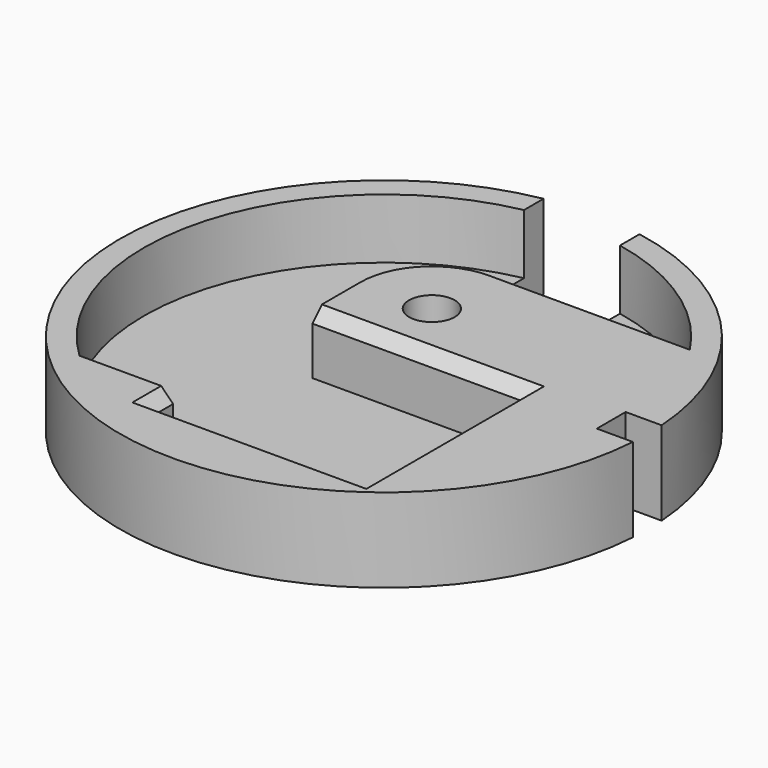
from build123d import *

# Parameters (mm, degrees)
SKETCH_R        = 22
PAD_DEPTH       = 7
SKETCH001_R     = 1.9
POCKET_DEPTH    = 7.001
POCKET001_DEPTH = 7.001
SKETCH003_W     = 18.5
SKETCH003_H     = 16.5
POCKET002_DEPTH = 5
POCKET003_DEPTH = 7.001
POCKET004_DEPTH = 5
CHAMFER_SIZE    = 1
CHAMFER001_SIZE = 1
CHAMFER002_SIZE = 1


with BuildPart() as part:
    # Sketch → Pad (new body)
    with BuildSketch(Plane.XY):
        Circle(SKETCH_R)
    extrude(amount=PAD_DEPTH)

    # Sketch001 → Pocket (cut, through all)
    with BuildSketch(Plane.XY.offset(7)):
        with Locations((0, 5)):
            Circle(SKETCH001_R)
    extrude(amount=-POCKET_DEPTH, mode=Mode.SUBTRACT)

    # Sketch002 → Pocket001 (cut, through all)
    with BuildSketch(Plane.XY.offset(7)):
        with BuildLine():
            ThreePointArc((21.948804, -1.5), (22, 0), (21.948804, 1.5))
            Line((21.948804, 1.5), (18.948804, 1.5))
            Line((18.948804, 1.5), (18.948804, -1.5))
            Line((18.948804, -1.5), (21.948804, -1.5))
        make_face()
    extrude(amount=-POCKET001_DEPTH, mode=Mode.SUBTRACT)

    # Sketch003 → Pocket002 (cut)
    with BuildSketch(Plane.XY.offset(7)):
        with Locations((3.293337, -8.257713)):
            Rectangle(SKETCH003_W, SKETCH003_H)
    extrude(amount=-POCKET002_DEPTH, mode=Mode.SUBTRACT)

    # Sketch004 → Pocket003 (cut, through all)
    with BuildSketch(Plane.XY.offset(7)):
        with BuildLine():
            ThreePointArc((4, 21.633308), (0, 22), (-4, 21.633308))
            Line((-4, 21.633308), (-4, 17.633308))
            Line((-4, 17.633308), (4, 17.633308))
            Line((4, 21.633308), (4, 17.633308))
        make_face()
    extrude(amount=-POCKET003_DEPTH, mode=Mode.SUBTRACT)

    # Sketch005 → Pocket004 (cut)
    with BuildSketch(Plane.XY.offset(7)):
        with BuildLine():
            ThreePointArc((0, 10.956663), (-4.212006, 9.211988), (-5.956663, 4.999975))
            Line((-5.956663, 4.999975), (-5.956663, -14.507713))
            Line((-5.956663, -14.507713), (-13.766854, -14.507713))
            ThreePointArc((16.731752, 10.956663), (-12.818201, 15.35232), (-13.766854, -14.507713))
            Line((0, 10.956663), (16.731752, 10.956663))
        make_face()
    extrude(amount=-POCKET004_DEPTH, mode=Mode.SUBTRACT)

    # Chamfer
    chamfer_edges = [part.edges().sort_by_distance(p)[0] for p in [
        (3.293337, -0.007713, 7),
    ]]
    chamfer(chamfer_edges, length=CHAMFER_SIZE)

    # Chamfer001
    chamfer001_edges = [part.edges().sort_by_distance(p)[0] for p in [
        (3.293337, -16.507713, 7),
    ]]
    chamfer(chamfer001_edges, length=CHAMFER001_SIZE)

    # Chamfer002
    chamfer002_edges = [part.edges().sort_by_distance(p)[0] for p in [
        (-5.956663, -15.507713, 7),
    ]]
    chamfer(chamfer002_edges, length=CHAMFER002_SIZE)


solid = part.part
